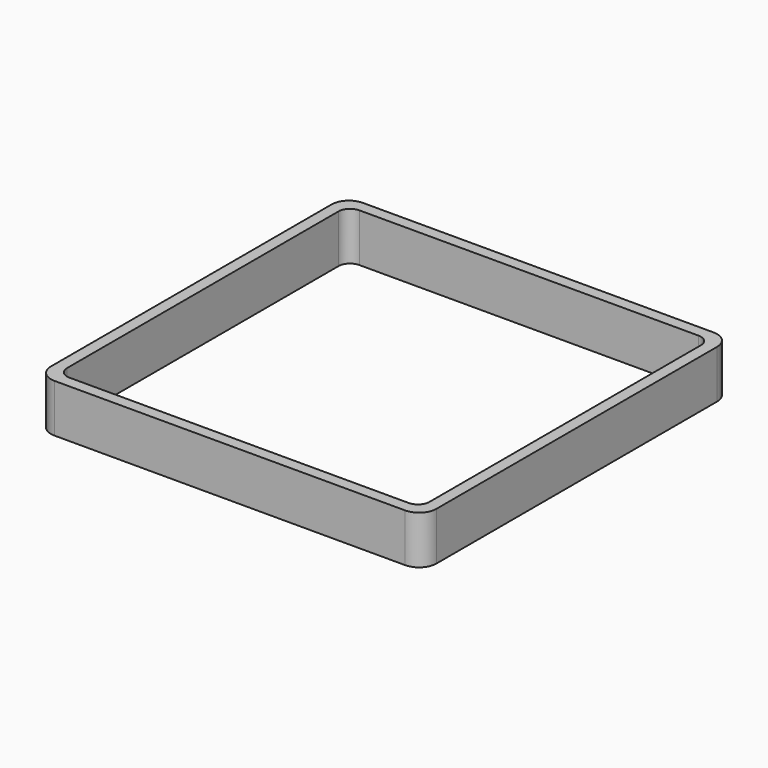
from build123d import *

# Parameters (mm, degrees)
EXTRUDE_DEPTH = 50


with BuildPart() as part:
    # Sketch → Extrude (new body)
    with BuildSketch(Plane.XY):
        with BuildLine():
            Line((-182, 200), (182, 200))
            ThreePointArc((200, 182), (194.727922, 194.727922), (182, 200))
            Line((200, 182), (200, -182))
            ThreePointArc((182, -200), (194.727922, -194.727922), (200, -182))
            Line((182, -200), (-182, -200))
            ThreePointArc((-200, -182), (-194.727922, -194.727922), (-182, -200))
            Line((-200, -182), (-200, 182))
            ThreePointArc((-182, 200), (-194.727922, 194.727922), (-200, 182))
        make_face()
        with BuildLine():
            Line((-176, 188), (176, 188))
            ThreePointArc((188, 176), (184.485281, 184.485281), (176, 188))
            Line((188, 176), (188, -176))
            ThreePointArc((176, -188), (184.485281, -184.485281), (188, -176))
            Line((176, -188), (-176, -188))
            ThreePointArc((-188, -176), (-184.485281, -184.485281), (-176, -188))
            Line((-188, -176), (-188, 176))
            ThreePointArc((-176, 188), (-184.485281, 184.485281), (-188, 176))
        make_face(mode=Mode.SUBTRACT)
    extrude(amount=EXTRUDE_DEPTH)


solid = part.part
